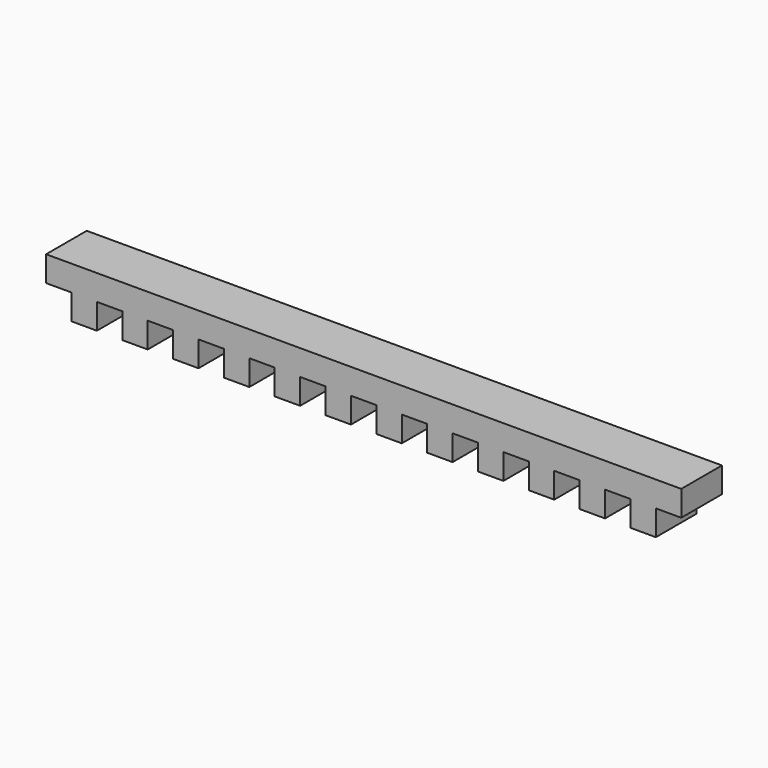
from build123d import *

# Parameters (mm, degrees)
F1_DEPTH = 38.1


with BuildPart() as f1:
    # F0 (on Front) → F1 (new body)
    with BuildSketch(Plane.XZ):
        Polygon((476.25, 0), (0, 0), (0, -19.05), (19.05, -19.05), (19.05, -38.1), (38.1, -38.1), (38.1, -19.05), (48.385094, -19.05), (57.15, -19.05), (57.15, -38.1), (67.435094, -38.1), (76.2, -38.1), (76.2, -19.05), (95.25, -19.05), (95.25, -38.1), (114.3, -38.1), (114.3, -19.05), (133.35, -19.05), (133.35, -38.1), (152.4, -38.1), (152.4, -19.05), (171.45, -19.05), (171.45, -38.1), (190.5, -38.1), (190.5, -19.05), (209.55, -19.05), (209.55, -38.1), (228.6, -38.1), (228.6, -19.05), (247.65, -19.05), (247.65, -38.1), (266.7, -38.1), (266.7, -19.05), (285.75, -19.05), (285.75, -38.1), (304.8, -38.1), (304.8, -19.05), (323.85, -19.05), (323.85, -38.1), (342.9, -38.1), (342.9, -19.05), (361.95, -19.05), (361.95, -38.1), (381, -38.1), (381, -19.05), (400.05, -19.05), (400.05, -38.1), (419.1, -38.1), (419.1, -19.05), (438.15, -19.05), (438.15, -38.1), (457.2, -38.1), (457.2, -19.05), (476.25, -19.05), align=None)
    extrude(amount=F1_DEPTH)


solid = f1.part
